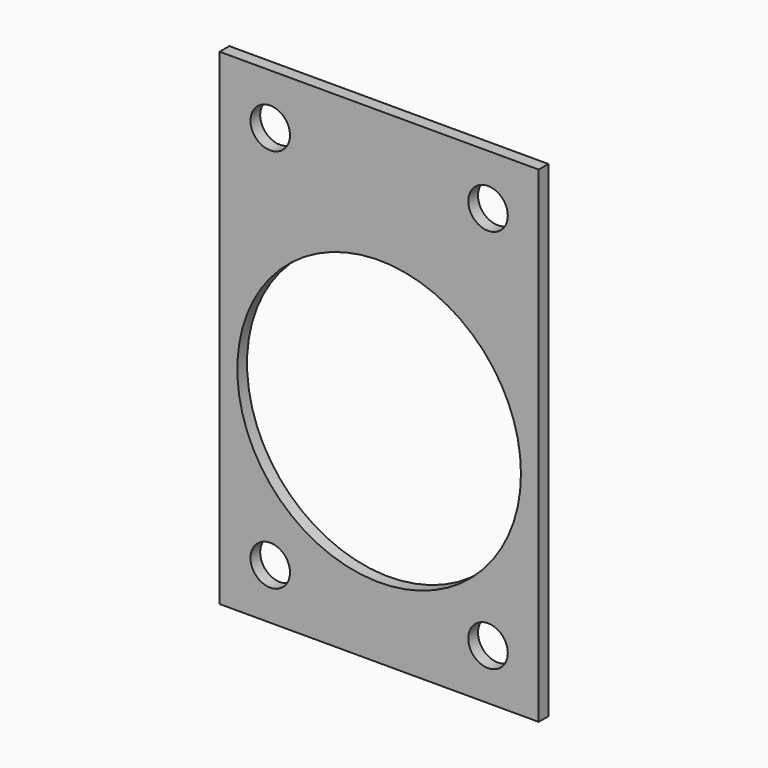
from build123d import *

# Parameters (mm, degrees)
F0_W     = 31.5
F0_H     = 48
F0_R     = 1.95
F0_R_2   = 14
F1_DEPTH = 1.2


with BuildPart() as f1:
    # F0 (on Front) → F1 (new body)
    with BuildSketch(Plane.XZ):
        with Locations((0, -1)):
            Rectangle(F0_W, F0_H)
        with Locations((-10.75, -20)):
            Circle(F0_R, mode=Mode.SUBTRACT)
        with Locations((10.75, -20)):
            Circle(F0_R, mode=Mode.SUBTRACT)
        with Locations((0, -4)):
            Circle(F0_R_2, mode=Mode.SUBTRACT)
        with Locations((-10.75, 18)):
            Circle(F0_R, mode=Mode.SUBTRACT)
        with Locations((10.75, 18)):
            Circle(F0_R, mode=Mode.SUBTRACT)
    extrude(amount=F1_DEPTH)


solid = f1.part
